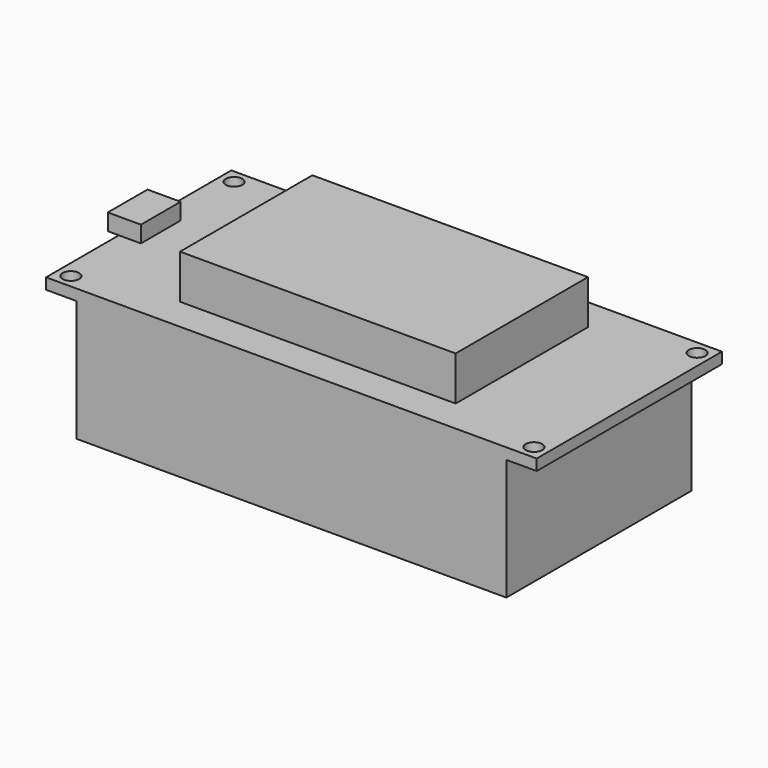
from build123d import *

# Parameters (mm, degrees)
SKETCH_W     = 89
SKETCH_H     = 42
PAD_DEPTH    = 2
SKETCH001_W  = 50
SKETCH001_H  = 30
PAD001_DEPTH = 8
SKETCH002_R  = 1.5
POCKET_DEPTH = 2
SKETCH003_W  = 6
SKETCH003_H  = 9
PAD002_DEPTH = 3
SKETCH005_W  = 78
SKETCH005_H  = 42
PAD003_DEPTH = 22


with BuildPart() as part:
    # Sketch → Pad (new body)
    with BuildSketch(Plane.XY):
        Rectangle(SKETCH_W, SKETCH_H)
    extrude(amount=PAD_DEPTH)

    # Sketch001 (on Face6 of Pad) → Pad001 (join)
    with BuildSketch(Plane.XY.offset(2)):
        Rectangle(SKETCH001_W, SKETCH001_H)
    extrude(amount=PAD001_DEPTH)

    # Sketch002 (on Face5 of Pad001) → Pocket (cut)
    with BuildSketch(Plane.XY.offset(2)):
        with Locations((-42, 18.5)):
            Circle(SKETCH002_R)
        with Locations((42, 18.5)):
            Circle(SKETCH002_R)
        with Locations((-42, -18.5)):
            Circle(SKETCH002_R)
        with Locations((42, -18.5)):
            Circle(SKETCH002_R)
    extrude(amount=-POCKET_DEPTH, mode=Mode.SUBTRACT)

    # Sketch003 (on Face5 of Pocket) → Pad002 (join)
    with BuildSketch(Plane.XY.offset(2)):
        with Locations((-43.5, 0)):
            Rectangle(SKETCH003_W, SKETCH003_H)
    extrude(amount=PAD002_DEPTH)

    # Sketch005 → Pad003 (join)
    with BuildSketch(Plane.XY):
        Rectangle(SKETCH005_W, SKETCH005_H)
    extrude(amount=-PAD003_DEPTH)


with BuildPart() as part_1:
    # Body placement: moved
    add(part.part.moved(Location((3, 0, 24))))


solid = part_1.part
